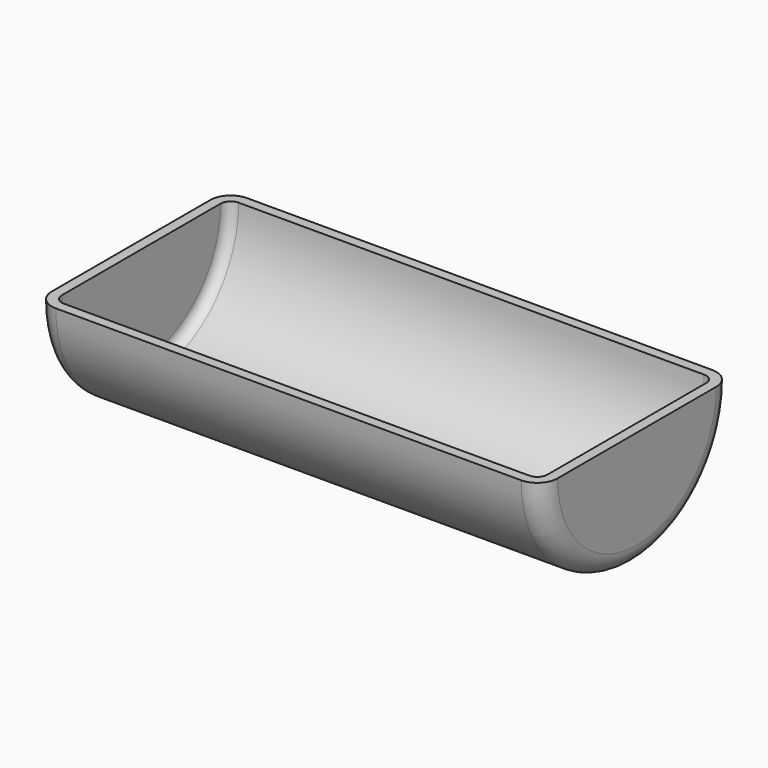
from build123d import *

# Parameters (mm, degrees)
F0_R     = 29.5141239903
F1_DEPTH = 125
F2_R     = 5
F3_W     = 373.883869499
F3_H     = 179.5099824667
F4_DEPTH = 29.5151239903
F5_T     = -2.5


with BuildPart() as f1:
    # F0 (on Right) → F1 (new body)
    with BuildSketch(Plane.YZ):
        Circle(F0_R)
    extrude(amount=F1_DEPTH)

    # F2
    f2_edges = [f1.edges().sort_by_distance(p)[0] for p in [
        (0, -29.514124, 0),
        (125, -29.514124, 0),
    ]]
    fillet(f2_edges, radius=F2_R)

    # F3 (on Top) → F4 (cut, through all)
    with BuildSketch(Plane.XY):
        with Locations((-27.8811287135, 41.5856614709)):
            Rectangle(F3_W, F3_H)
    extrude(amount=F4_DEPTH, mode=Mode.SUBTRACT)

    # F5
    f5_openings = [f1.faces().sort_by_distance(p)[0] for p in [
        (62.5, 0, 0),
    ]]
    offset(amount=F5_T, openings=f5_openings)


solid = f1.part
